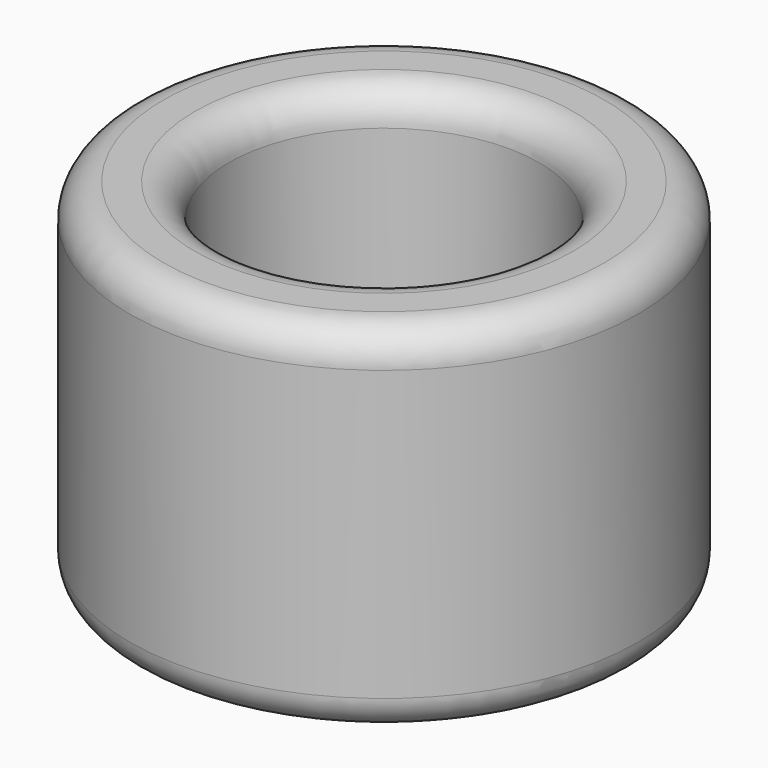
from build123d import *

# Parameters (mm, degrees)
F0_R     = 38.043334
F1_DEPTH = 53.34
F2_R     = 23.223229
F3_DEPTH = 53.34
F4_R     = 5.08


with BuildPart() as f1:
    # F0 (on Top) → F1 (new body)
    with BuildSketch(Plane.XY):
        Circle(F0_R)
    extrude(amount=F1_DEPTH)

    # F2 (on face) → F3 (cut, through all)
    with BuildSketch(Plane.XY.offset(53.34)):
        Circle(F2_R)
    extrude(amount=-F3_DEPTH, mode=Mode.SUBTRACT)

    # F4
    f4_edges = [f1.edges().sort_by_distance(p)[0] for p in [
        (-38.043334, 0, 53.34),
        (-23.223229, 0, 53.34),
        (-38.043334, 0, 0),
        (-23.223229, 0, 0),
    ]]
    fillet(f4_edges, radius=F4_R)


solid = f1.part
